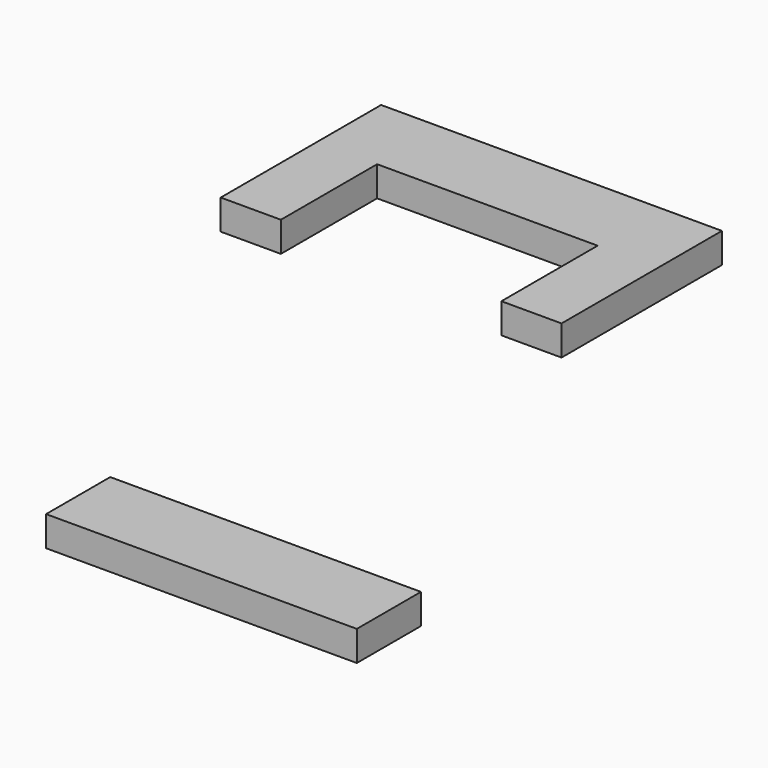
from build123d import *

# Parameters (mm, degrees)
F0_W     = 31
F0_H     = 8
F1_DEPTH = 3


with BuildPart() as f1:
    # F0 (on Top) → F1 (new body)
    with BuildSketch(Plane.XY):
        Polygon((-37.2518, 20), (-71.2518, 20), (-71.2518, 0), (-70.2518, 0), (-65.2518, 0), (-65.2518, 12), (-43.2518, 12), (-43.2518, 0), (-37.2518, 0), align=None)
        with Locations((-33.013606, -46.202545)):
            Rectangle(F0_W, F0_H)
    extrude(amount=F1_DEPTH)


solid = f1.part
